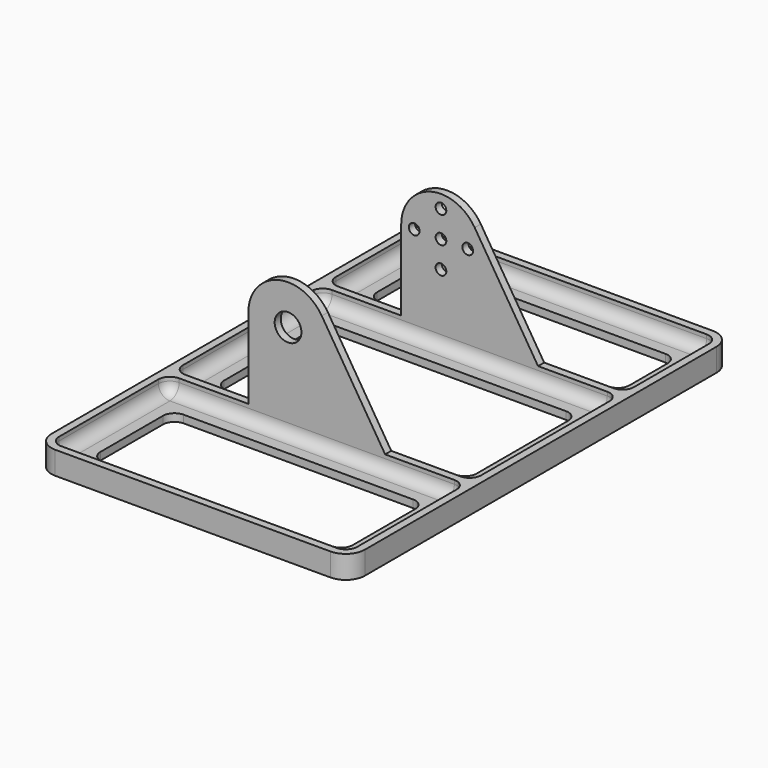
from build123d import *

# Parameters (mm, degrees)
PAD_DEPTH    = 2
SKETCH001_R  = 3.5
PAD001_DEPTH = 2
SKETCH003_R  = 1.4
PAD003_DEPTH = 2
PAD004_DEPTH = 4
FILLET_R     = 3
FILLET001_R  = 3
FILLET002_R  = 3
FILLET003_R  = 3
FILLET004_R  = 3
FILLET005_R  = 3
FILLET006_R  = 3
FILLET007_R  = 3


with BuildPart() as body:
    # Sketch → Pad (new body)
    with BuildSketch(Plane.XY):
        with BuildLine():
            Line((-36, 62.5), (36, 62.5))
            ThreePointArc((41, 57.5), (39.535534, 61.035534), (36, 62.5))
            Line((41, 57.5), (41, -57.5))
            ThreePointArc((36, -62.5), (39.535534, -61.035534), (41, -57.5))
            Line((36, -62.5), (-36, -62.5))
            ThreePointArc((-41, -57.5), (-39.535534, -61.035534), (-36, -62.5))
            Line((-41, -57.5), (-41, 57.5))
            ThreePointArc((-36, 62.5), (-39.535534, 61.035534), (-41, 57.5))
        make_face()
        with BuildLine():
            ThreePointArc((-30, 54.5), (-32.12132, 53.62132), (-33, 51.5))
            Line((-33, 39), (-33, 51.5))
            ThreePointArc((-33, 39), (-32.12132, 36.87868), (-30, 36))
            Line((30, 36), (-30, 36))
            ThreePointArc((30, 36), (32.12132, 36.87868), (33, 39))
            Line((33, 51.5), (33, 39))
            ThreePointArc((33, 51.5), (32.12132, 53.62132), (30, 54.5))
            Line((-30, 54.5), (30, 54.5))
        make_face(mode=Mode.SUBTRACT)
        with BuildLine():
            ThreePointArc((-30, -28), (-32.12132, -28.87868), (-33, -31))
            Line((-33, -51.5), (-33, -31))
            ThreePointArc((-33, -51.5), (-32.12132, -53.62132), (-30, -54.5))
            Line((30, -54.5), (-30, -54.5))
            ThreePointArc((30, -54.5), (32.12132, -53.62132), (33, -51.5))
            Line((33, -31), (33, -51.5))
            ThreePointArc((33, -31), (32.12132, -28.87868), (30, -28))
            Line((-30, -28), (30, -28))
        make_face(mode=Mode.SUBTRACT)
        with BuildLine():
            ThreePointArc((-30, 22), (-32.12132, 21.12132), (-33, 19))
            Line((-33, -11), (-33, 19))
            ThreePointArc((-33, -11), (-32.12132, -13.12132), (-30, -14))
            Line((30, -14), (-30, -14))
            ThreePointArc((30, -14), (32.12132, -13.12132), (33, -11))
            Line((33, 19), (33, -11))
            ThreePointArc((33, 19), (32.12132, 21.12132), (30, 22))
            Line((-30, 22), (30, 22))
        make_face(mode=Mode.SUBTRACT)
    extrude(amount=PAD_DEPTH)

    # Sketch001 → Pad001 (join)
    with BuildSketch(Plane(origin=(7.5, -20, 0), x_dir=(1, 0, 0), z_dir=(0, -1, 0))):
        with BuildLine():
            Line((10.4, 27), (10.4, 6))
            Line((33.5, 6), (10.4, 6))
            Line((33.5, 2), (33.5, 6))
            Line((-48.5, 2), (33.5, 2))
            Line((-48.5, 6), (-48.5, 2))
            Line((-25.4, 6), (-48.5, 6))
            Line((-25.4, 6), (-8.817564, 32.514577))
            ThreePointArc((10.4, 27), (2.868565, 36.996566), (-8.817564, 32.514577))
        make_face()
        with Locations((0, 27)):
            Circle(SKETCH001_R, mode=Mode.SUBTRACT)
    extrude(amount=PAD001_DEPTH)

    # Sketch003 → Pad003 (join)
    with BuildSketch(Plane(origin=(7.5, 30, 0), x_dir=(1, 0, 0), z_dir=(0, -1, 0))):
        with BuildLine():
            Line((33.5, 2), (-48.5, 2))
            Line((-48.5, 6), (-48.5, 2))
            Line((-25.4, 6), (-48.5, 6))
            Line((-8.817564, 32.514577), (-25.4, 6))
            ThreePointArc((10.4, 27), (2.868565, 36.996566), (-8.817564, 32.514577))
            Line((10.4, 27), (10.4, 6))
            Line((10.4, 6), (33.5, 6))
            Line((33.5, 6), (33.5, 2))
        make_face()
        with Locations((0, 27)):
            Circle(SKETCH003_R, mode=Mode.SUBTRACT)
        with Locations((-7, 27)):
            Circle(SKETCH003_R, mode=Mode.SUBTRACT)
        with Locations((0, 20)):
            Circle(SKETCH003_R, mode=Mode.SUBTRACT)
        with Locations((7, 27)):
            Circle(SKETCH003_R, mode=Mode.SUBTRACT)
        with Locations((0, 34)):
            Circle(SKETCH003_R, mode=Mode.SUBTRACT)
    extrude(amount=PAD003_DEPTH)

    # Sketch004 (on Face5 of Pad003) → Pad004 (join)
    with BuildSketch(Plane.XY.offset(2)):
        with BuildLine():
            Line((-36, 62.5), (36, 62.5))
            ThreePointArc((41, 57.5), (39.535534, 61.035534), (36, 62.5))
            Line((41, -57.5), (41, 57.5))
            ThreePointArc((36, -62.5), (39.535534, -61.035534), (41, -57.5))
            Line((-36, -62.5), (36, -62.5))
            ThreePointArc((-41, -57.5), (-39.535534, -61.035534), (-36, -62.5))
            Line((-41, 57.5), (-41, -57.5))
            ThreePointArc((-36, 62.5), (-39.535534, 61.035534), (-41, 57.5))
        make_face()
        with BuildLine():
            Line((-36, 60.5), (36, 60.5))
            ThreePointArc((39, 57.5), (38.12132, 59.62132), (36, 60.5))
            Line((39, 57.5), (39, -57.5))
            ThreePointArc((36, -60.5), (38.12132, -59.62132), (39, -57.5))
            Line((36, -60.5), (-36, -60.5))
            ThreePointArc((-39, -57.5), (-38.12132, -59.62132), (-36, -60.5))
            Line((-39, -57.5), (-39, 57.5))
            ThreePointArc((-36, 60.5), (-38.12132, 59.62132), (-39, 57.5))
        make_face(mode=Mode.SUBTRACT)
    extrude(amount=PAD004_DEPTH)

    # Fillet
    fillet_edges = [body.edges().sort_by_distance(p)[0] for p in [
        (-39, 4, 2),
    ]]
    fillet(fillet_edges, radius=FILLET_R)

    # Fillet001
    fillet001_edges = [body.edges().sort_by_distance(p)[0] for p in [
        (-39, -39.75, 2),
    ]]
    fillet(fillet001_edges, radius=FILLET001_R)

    # Fillet002
    fillet002_edges = [body.edges().sort_by_distance(p)[0] for p in [
        (0, -22, 2),
    ]]
    fillet(fillet002_edges, radius=FILLET002_R)

    # Fillet003
    fillet003_edges = [body.edges().sort_by_distance(p)[0] for p in [
        (1.5, 28, 2),
    ]]
    fillet(fillet003_edges, radius=FILLET003_R)

    # Fillet004
    fillet004_edges = [body.edges().sort_by_distance(p)[0] for p in [
        (1.5, -20, 2),
    ]]
    fillet(fillet004_edges, radius=FILLET004_R)

    # Fillet005
    fillet005_edges = [body.edges().sort_by_distance(p)[0] for p in [
        (39, 4, 2),
    ]]
    fillet(fillet005_edges, radius=FILLET005_R)

    # Fillet006
    fillet006_edges = [body.edges().sort_by_distance(p)[0] for p in [
        (0, 60.5, 2),
    ]]
    fillet(fillet006_edges, radius=FILLET006_R)

    # Fillet007
    fillet007_edges = [body.edges().sort_by_distance(p)[0] for p in [
        (0, 30, 2),
    ]]
    fillet(fillet007_edges, radius=FILLET007_R)


with BuildPart() as part_mirroring:
    # Part__Mirroring: instance of Body
    add(body.part.mirror(Plane(origin=(0, 0, 0), x_dir=(0, -1, 0), z_dir=(1, 0, 0))))


solid = part_mirroring.part
